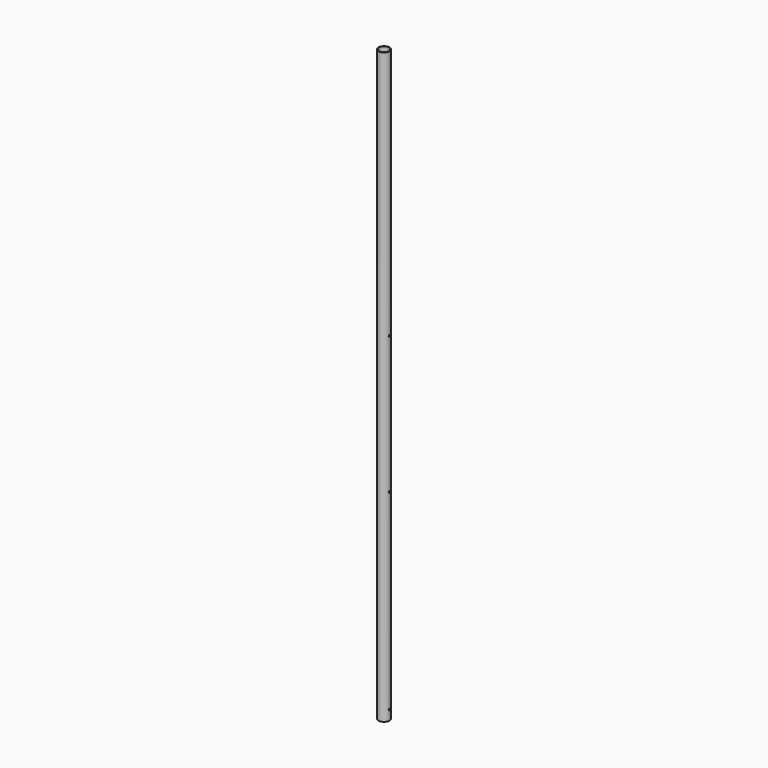
from build123d import *

# Parameters (mm, degrees)
F0_R     = 28.575
F0_R_2   = 25.4
F1_DEPTH = 1524
F2_R     = 4.7625
F3_DEPTH = 50.8


with BuildPart() as f1:
    # F0 (on Top) → F1 (new body, symmetric)
    with BuildSketch(Plane.XY):
        Circle(F0_R)
        Circle(F0_R_2, mode=Mode.SUBTRACT)
    extrude(amount=F1_DEPTH, both=True)

    # F2 (on Right) → F3 (cut, symmetric)
    with BuildSketch(Plane.YZ):
        with Locations((0, -1473.2)):
            Circle(F2_R)
        with Locations((0, -482.6)):
            Circle(F2_R)
        with Locations((0, 228.6)):
            Circle(F2_R)
    extrude(amount=F3_DEPTH, both=True, mode=Mode.SUBTRACT)


solid = f1.part
